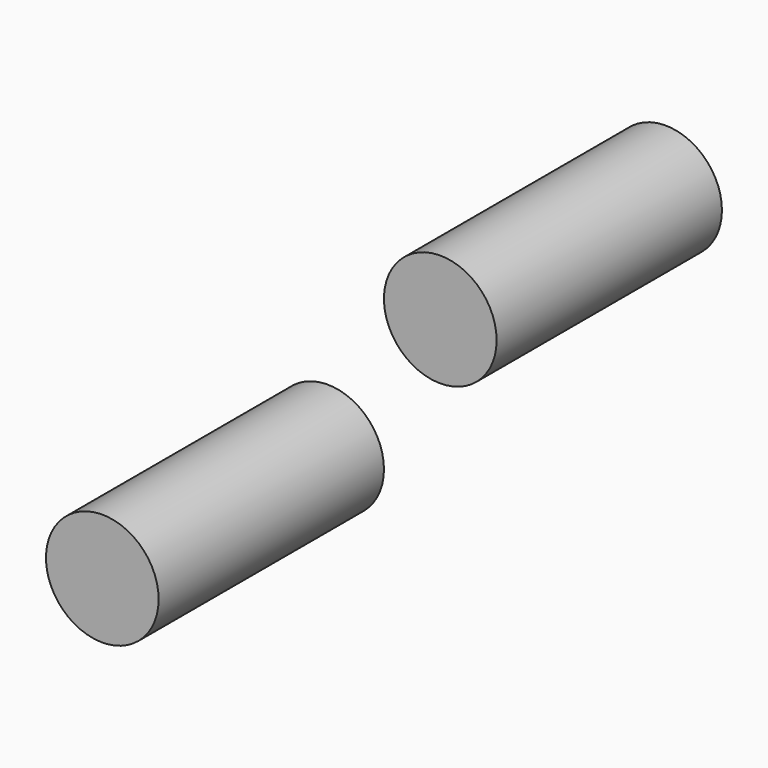
from build123d import *

# Parameters (mm, degrees)
CYLINDER006_R     = 2
CYLINDER006_DEPTH = 10
CYLINDER005_R     = 2
CYLINDER005_DEPTH = 10


with BuildPart() as cilindre006:
    # Cylinder006 → Cylinder006 (new body)
    with BuildSketch(Plane(origin=(4, 20.01, 4), x_dir=(1, 0, 0), z_dir=(0, -1, 0))):
        Circle(CYLINDER006_R)
    extrude(amount=CYLINDER006_DEPTH)


with BuildPart() as fusion:
    # Cylinder005 → Cylinder005 (new body)
    with BuildSketch(Plane(origin=(16, 20.01, 16), x_dir=(1, 0, 0), z_dir=(0, -1, 0))):
        Circle(CYLINDER005_R)
    extrude(amount=CYLINDER005_DEPTH)

    # Fusion: union Cilindre006
    add(cilindre006.part)


solid = fusion.part
